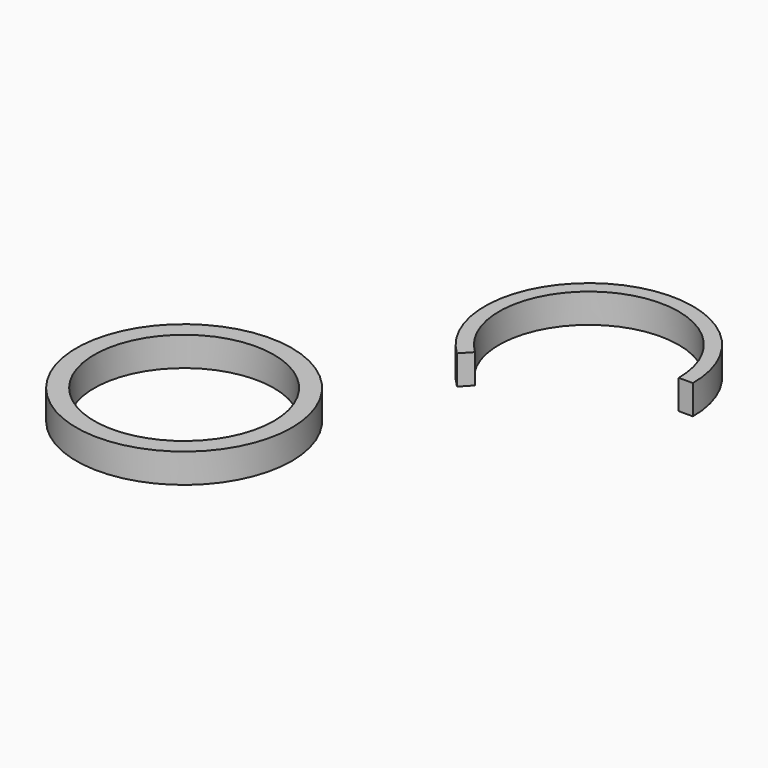
from build123d import *

# Parameters (mm, degrees)
F0_R     = 15.24
F0_R_2   = 12.7
F1_DEPTH = 4.15


with BuildPart() as f1:
    # F0 (on Top) → F1 (new body)
    with BuildSketch(Plane.XY):
        with BuildLine():
            ThreePointArc((-8.699126, -9.252848), (-5.040392, 11.656949), (12.7, 0))
            Line((12.7, 0), (14.716113, 0))
            ThreePointArc((14.716113, 0), (-5.840549, 13.507478), (-10.080105, -10.721729))
            Line((-10.080105, -10.721729), (-8.699126, -9.252848))
        make_face()
        with Locations((-28.44375, -35.997208)):
            Circle(F0_R)
        with Locations((-28.44375, -35.997208)):
            Circle(F0_R_2, mode=Mode.SUBTRACT)
    extrude(amount=F1_DEPTH)


solid = f1.part
